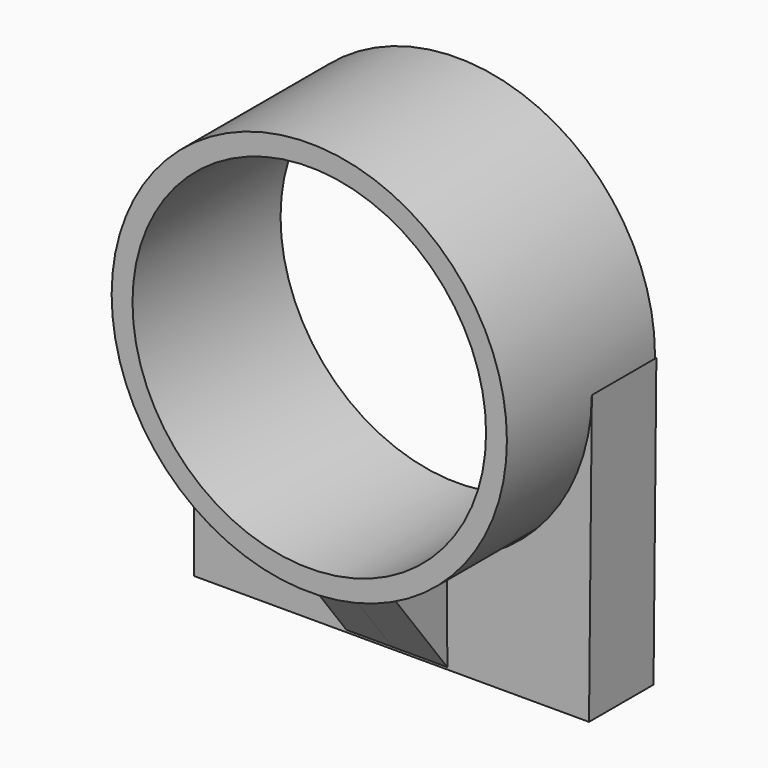
from build123d import *

# Parameters (mm, degrees)
F1_DEPTH = 11.176
F2_R     = 27.395463
F2_R_2   = 24.506022
F3_DEPTH = 25.654
F5_DEPTH = 7.62
F6_DEPTH = 6.35


with BuildPart() as f1:
    # F0 (on Front) → F1 (new body)
    with BuildSketch(Plane.XZ):
        with BuildLine():
            ThreePointArc((27.585754, -0.271245), (-0.135624, -27.586754), (-27.587088, 0))
            Line((-27.587088, 0), (-27.587088, -40.281534))
            Line((-27.587088, -40.281534), (27.192341, -40.281534))
            Line((27.192341, -40.281534), (27.585754, -0.271245))
        make_face()
    extrude(amount=F1_DEPTH)


with BuildPart() as f3:
    # F2 (on Front) → F3 (new body)
    with BuildSketch(Plane.XZ):
        Circle(F2_R)
        Circle(F2_R_2, mode=Mode.SUBTRACT)
    extrude(amount=F3_DEPTH)

    # F4 (on Right) → F5 (join)
    with BuildSketch(Plane.YZ):
        Polygon((-11.337822, -27.296796), (-20.947605, -27.296796), (-11.258647, -39.931197), align=None)
    extrude(amount=F5_DEPTH)

    # F5_face (on face) → F6 (join)
    with BuildSketch(Plane(origin=(0, -14.489264, -31.574041), x_dir=(0, 1, 0), z_dir=(-1, 0, 0))):
        Polygon((3.15206, -4.178578), (3.230617, 8.357156), (-6.382677, -4.178578), align=None)
    extrude(amount=F6_DEPTH)


solid = Compound([f1.part, f3.part])
